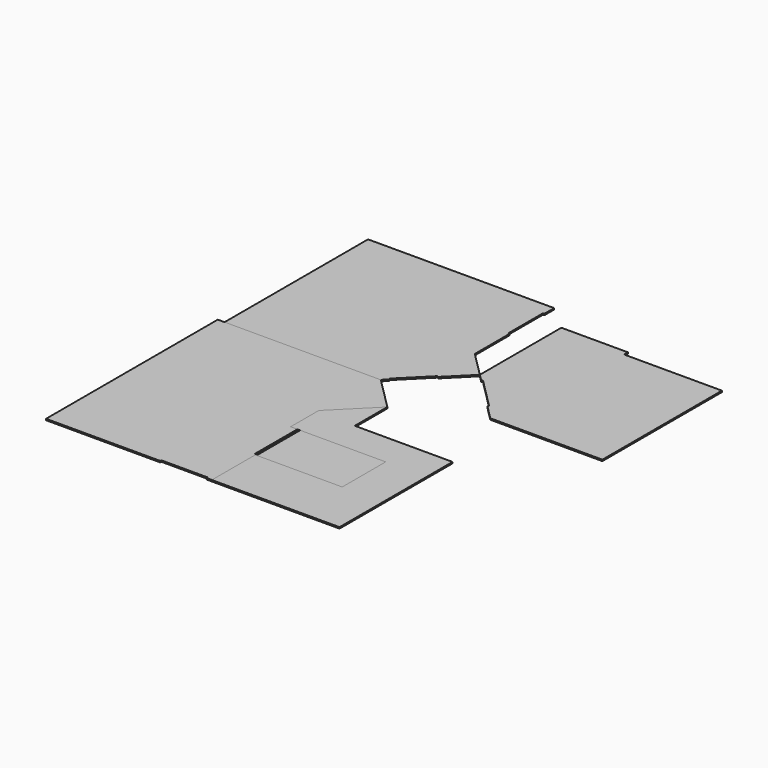
from build123d import *

# Parameters (mm, degrees)
F1_DEPTH = 25.4
F2_DEPTH = 25.4
F3_DEPTH = 25.4
F4_DEPTH = 25.4
F5_DEPTH = 25.4


with BuildPart() as f1:
    # F0 (on Top) → F1 (new body)
    with BuildSketch(Plane.XY):
        Polygon((-1397, 2006.6), (-1524, 2006.6), (-1524, -2006.6), (609.6, -2006.6), (609.6, -1981.2), (1473.2, -1981.2), (1473.2, -2006.6), (1574.8, -2006.6), (1574.8, -990.6), (1574.8, -965.2), (1549.4, -965.2), (1549.4, 25.4), (1422.4, 25.4), (1422.4, 683.685168), (2134.657416, 1395.942584), (1524, 2006.6), align=None)
    extrude(amount=F1_DEPTH)


with BuildPart() as f2:
    # F0 (on Top) → F2 (new body)
    with BuildSketch(Plane.XY):
        Polygon((1574.8, -965.2), (1574.8, -990.6), (2692.4, -990.6), (3200.4, -990.6), (3200.4, 25.4), (1600.2, 25.4), (1600.2, -965.2), align=None)
    extrude(amount=F2_DEPTH)


with BuildPart() as f3:
    # F0 (on Top) → F3 (new body)
    with BuildSketch(Plane.XY):
        Polygon((2134.657416, 635), (2134.657416, 1395.942584), (1422.4, 683.685168), (1422.4, 25.4), (1549.4, 25.4), (1600.2, 25.4), (3200.4, 25.4), (3200.4, -990.6), (2692.4, -990.6), (1574.8, -990.6), (1574.8, -2006.6), (2692.4, -2006.6), (3962.4, -2006.6), (3962.4, 635), align=None)
    extrude(amount=F3_DEPTH)


with BuildPart() as f4:
    # F0 (on Top) → F4 (new body)
    with BuildSketch(Plane.XY):
        Polygon((-1397, 5359.4), (-1397, 2006.6), (1524, 2006.6), (1613.802561, 2096.402561), (1595.842049, 2114.363073), (2098.736392, 2617.257416), (2116.696904, 2599.296904), (2552.7, 3035.3), (2082.8, 3505.2), (2082.8, 4318), (2057.4, 4318), (2057.4, 5130.8), (2082.8, 5130.8), (2082.8, 5359.4), align=None)
    extrude(amount=F4_DEPTH)


with BuildPart() as f5:
    # F0 (on Top) → F5 (new body)
    with BuildSketch(Plane.XY):
        Polygon((3797.3, 4940.3), (2552.7, 4940.3), (2552.7, 3035.3), (2678.423586, 2909.576414), (2696.384098, 2927.536927), (3271.12049, 2352.800535), (3253.159977, 2334.840023), (3530.6, 2057.4), (5626.1, 2057.4), (5626.1, 4851.4), (3797.3, 4851.4), align=None)
    extrude(amount=F5_DEPTH)


solid = Compound([f1.part, f2.part, f3.part, f4.part, f5.part])
